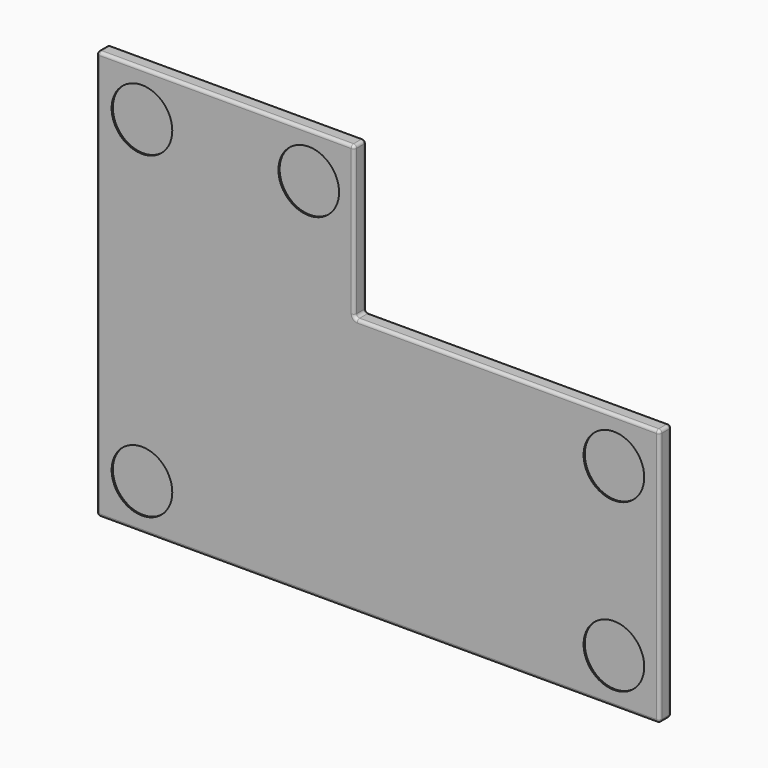
from build123d import *

# Parameters (mm, degrees)
F1_DEPTH = 25.4
F3_R     = 50.8
F4_DEPTH = 2.54
F5_R     = 5.08


with BuildPart() as f1:
    # F0 (on Front) → F1 (new body)
    with BuildSketch(Plane.XZ):
        Polygon((-471.4875, -342.9), (471.4875, -342.9), (471.4875, 88.9), (-39.6875, 88.9), (-39.6875, 342.9), (-471.4875, 342.9), align=None)
    extrude(amount=F1_DEPTH)

    # F3 (on face) → F4 (cut)
    with BuildSketch(Plane.XZ.offset(25.4)):
        with Locations((-395.2875, 266.7)):
            Circle(F3_R)
        with Locations((-115.8875, 266.7)):
            Circle(F3_R)
        with Locations((-395.2875, -266.7)):
            Circle(F3_R)
        with Locations((395.2875, -266.7)):
            Circle(F3_R)
        with Locations((395.2875, 12.7)):
            Circle(F3_R)
    extrude(amount=-F4_DEPTH, mode=Mode.SUBTRACT)

    # F5
    f5_edges = [f1.edges().sort_by_distance(p)[0] for p in [
        (-471.4875, -12.7, -342.9),
        (471.4875, -12.7, -342.9),
        (0, 0, -342.9),
        (0, -25.4, -342.9),
        (-471.4875, -12.7, 342.9),
        (-471.4875, 0, 0),
        (-471.4875, -25.4, 0),
        (471.4875, -12.7, 88.9),
        (471.4875, 0, -127),
        (471.4875, -25.4, -127),
        (-39.6875, -12.7, 88.9),
        (215.9, 0, 88.9),
        (215.9, -25.4, 88.9),
        (-39.6875, -12.7, 342.9),
        (-39.6875, 0, 215.9),
        (-39.6875, -25.4, 215.9),
        (-255.5875, 0, 342.9),
        (-255.5875, -25.4, 342.9),
    ]]
    fillet(f5_edges, radius=F5_R)


solid = f1.part
